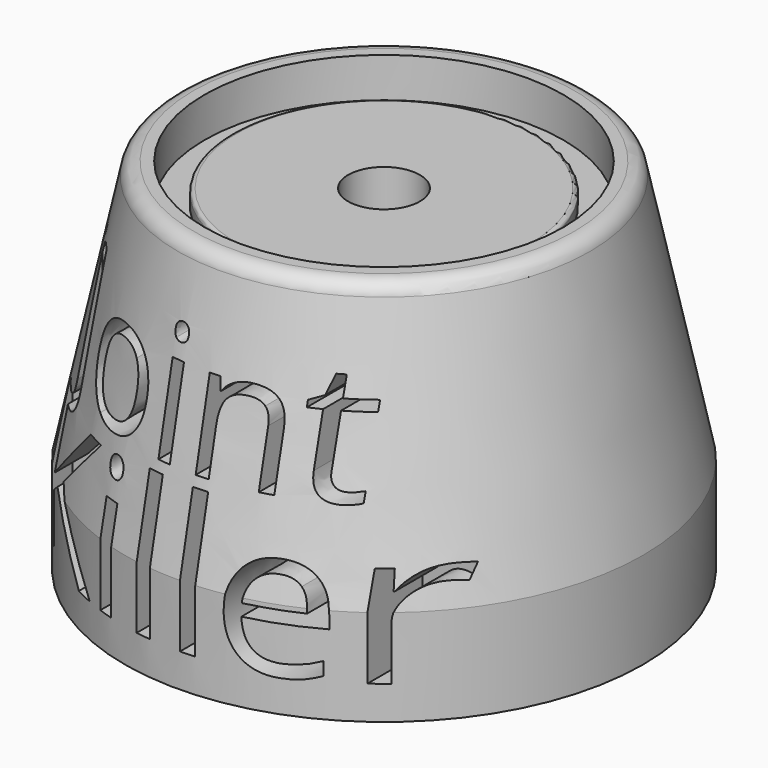
from build123d import *

# Parameters (mm, degrees)
F0_R      = 32.5
F0_R_2    = 22.5
F1_DEPTH  = 4
F2_DEPTH  = 45
F0_R_3    = 19
F3_DEPTH  = 40
F0_R_4    = 4.5
F4_DEPTH  = 42
F5_DEPTH  = 7
F6_SIZE2  = 32.9324107663
F6_SIZE   = 7
F7_R      = 2
F8_R      = 0.5
F10_START = 17.7
F9_W      = 1.5762670215
F9_H      = 10.4021474928
F9_W_2    = 1.8514880985
F9_H_2    = 12.2183944844
F9_H_3    = 17.3483364606
F10_DEPTH = 14.801


with BuildPart() as f1:
    # F0 (on Top) → F1 (new body)
    with BuildSketch(Plane.XY):
        Circle(F0_R)
        Circle(F0_R_2, mode=Mode.SUBTRACT)
    extrude(amount=F1_DEPTH)

    # F0 (on Top) → F2 (join)
    with BuildSketch(Plane.XY):
        Circle(F0_R)
        Circle(F0_R_2, mode=Mode.SUBTRACT)
    extrude(amount=F2_DEPTH)

    # F0 (on Top) → F3 (join)
    with BuildSketch(Plane.XY):
        Circle(F0_R_2)
        Circle(F0_R_3, mode=Mode.SUBTRACT)
    extrude(amount=F3_DEPTH)

    # F0 (on Top) → F4 (join)
    with BuildSketch(Plane.XY):
        Circle(F0_R_3)
        Circle(F0_R_4, mode=Mode.SUBTRACT)
    extrude(amount=F4_DEPTH)

    # F0 (on Top) → F5 (join)
    with BuildSketch(Plane.XY):
        Circle(F0_R_4)
    extrude(amount=F5_DEPTH)

    # F6
    f6_edges = [f1.edges().sort_by_distance(p)[0] for p in [
        (-32.5, 0, 45),
    ]]
    f6_side = f1.faces().sort_by_distance((-31.580761, 0, 45))[0]
    chamfer(f6_edges, length=F6_SIZE, length2=F6_SIZE2, reference=f6_side)

    # F7
    f7_edges = [f1.edges().sort_by_distance(p)[0] for p in [
        (-25.5, 0, 45),
    ]]
    fillet(f7_edges, radius=F7_R)

    # F8
    f8_edges = [f1.edges().sort_by_distance(p)[0] for p in [
        (-19, 0, 42),
    ]]
    fillet(f8_edges, radius=F8_R)

    # F9 (on Front) → F10 (cut)
    with BuildSketch(Plane.XZ.offset(F10_START)):
        with BuildLine():
            add(Edge.make_bspline(
                [(-22.9669187687, 19.1680129867), (-23.01992961, 19.16703125), (-23.073731253, 19.16703125)],
                knots=[0.9685352191, 0.9685352191, 0.9685352191, 1, 1, 1], degree=2))
            add(Edge.make_bspline(
                [(-23.073731253, 19.16703125), (-23.9636083962, 19.16703125), (-24.4768822433, 19.4221496119)],
                knots=[0, 0, 0, 1, 1, 1], degree=2))
            Line((-24.4768822433, 19.4221496119), (-24.4768822433, 20.5202504976))
            Line((-24.4768822433, 20.5202504976), (-24.8612158405, 20.5202504976))
            Line((-24.8612158405, 20.5202504976), (-24.8612158405, 4.2207338847))
            Line((-24.8612158405, 4.2207338847), (-22.9669187687, 4.2207338847))
            Line((-22.9669187687, 4.2207338847), (-22.9669187687, 10.6099731611))
            Line((-22.9669187687, 10.6099731611), (-21.2581272481, 12.1261243015))
            Line((-21.2581272481, 12.1261243015), (-15.3183821922, 4.2207338847))
            Line((-15.3183821922, 4.2207338847), (-13.0887481622, 4.2207338847))
            Line((-13.0887481622, 4.2207338847), (-19.8882401, 13.4389328183))
            Line((-19.8882401, 13.4389328183), (-13.3348997591, 20.5202504976))
            Line((-13.3348997591, 20.5202504976), (-15.5752360324, 20.5202504976))
            Line((-15.5752360324, 20.5202504976), (-22.9669187687, 12.4364893585))
            Line((-22.9669187687, 12.4364893585), (-22.9669187687, 19.1680129867))
        make_face()
        with BuildLine():
            add(Edge.make_bspline(
                [(-23.073731253, 19.16703125), (-23.9636083962, 19.16703125), (-24.4768822433, 19.4221496119)],
                knots=[0, 0, 0, 1, 1, 1], degree=2))
            add(Edge.make_bspline(
                [(-22.9669187687, 19.1680129867), (-23.01992961, 19.16703125), (-23.073731253, 19.16703125)],
                knots=[0.9685352191, 0.9685352191, 0.9685352191, 1, 1, 1], degree=2))
            Line((-22.9669187687, 19.1680129867), (-22.9669187687, 20.5202504976))
            Line((-22.9669187687, 20.5202504976), (-24.4768822433, 20.5202504976))
            Line((-24.4768822433, 20.5202504976), (-24.4768822433, 19.4221496119))
        make_face()
        with BuildLine():
            Line((-22.9669187687, 20.5202504976), (-22.9669187687, 19.1680129867))
            add(Edge.make_bspline(
                [(-20.4526937972, 20.1586520256), (-21.3351620775, 19.1982323805), (-22.9669187687, 19.1680129867)],
                knots=[0, 0, 0, 0.9685352191, 0.9685352191, 0.9685352191], degree=2))
            add(Edge.make_bspline(
                [(-19.5415567905, 22.9543240744), (-19.5415567905, 21.1502728012), (-20.4526937972, 20.1586520256)],
                knots=[0, 0, 0, 1, 1, 1], degree=2))
            Line((-19.5415567905, 22.9543240744), (-19.5415567905, 36.6973072584))
            Line((-19.5415567905, 36.6973072584), (-21.1542692923, 36.6973072584))
            Line((-21.1542692923, 36.6973072584), (-21.1542692923, 22.8206906468))
            add(Edge.make_bspline(
                [(-21.6432461526, 21.1791254731), (-21.1542692923, 21.7485861022), (-21.1542692923, 22.8206906468)],
                knots=[0, 0, 0, 1, 1, 1], degree=2))
            add(Edge.make_bspline(
                [(-23.073731253, 20.6096648439), (-22.1322230128, 20.6096648439), (-21.6432461526, 21.1791254731)],
                knots=[0, 0, 0, 1, 1, 1], degree=2))
            add(Edge.make_bspline(
                [(-24.4768822433, 20.797966492), (-23.8026408584, 20.6096648439), (-23.073731253, 20.6096648439)],
                knots=[0, 0, 0, 1, 1, 1], degree=2))
            Line((-24.4768822433, 20.797966492), (-24.4768822433, 20.5202504976))
            Line((-24.4768822433, 20.5202504976), (-22.9669187687, 20.5202504976))
        make_face()
        with BuildLine():
            add(Edge.make_bspline(
                [(-7.1197222662, 28.0323943249), (-7.1197222662, 25.487284953), (-8.3998697606, 24.0583184142)],
                knots=[0, 0, 0, 1, 1, 1], degree=2))
            add(Edge.make_bspline(
                [(-8.4059440073, 31.9609133854), (-7.1197222662, 30.5076498597), (-7.1197222662, 28.0323943249)],
                knots=[0, 0, 0, 1, 1, 1], degree=2))
            add(Edge.make_bspline(
                [(-11.8728203177, 33.414176911), (-9.6921657484, 33.414176911), (-8.4059440073, 31.9609133854)],
                knots=[0, 0, 0, 1, 1, 1], degree=2))
            add(Edge.make_bspline(
                [(-15.4049947802, 31.9943217423), (-14.1324400942, 33.414176911), (-11.8728203177, 33.414176911)],
                knots=[0, 0, 0, 1, 1, 1], degree=2))
            add(Edge.make_bspline(
                [(-16.6775494662, 28.0323943249), (-16.6775494662, 30.5744665735), (-15.4049947802, 31.9943217423)],
                knots=[0, 0, 0, 1, 1, 1], degree=2))
            add(Edge.make_bspline(
                [(-16.0883475352, 25.1653498773), (-16.6775494662, 26.3893105896), (-16.6775494662, 28.0323943249)],
                knots=[0, 0, 0, 1, 1, 1], degree=2))
            add(Edge.make_bspline(
                [(-14.4179296896, 23.2853705202), (-15.4991456042, 23.941389165), (-16.0883475352, 25.1653498773)],
                knots=[0, 0, 0, 1, 1, 1], degree=2))
            add(Edge.make_bspline(
                [(-11.9396370315, 22.6293518754), (-13.3367137751, 22.6293518754), (-14.4179296896, 23.2853705202)],
                knots=[0, 0, 0, 1, 1, 1], degree=2))
            add(Edge.make_bspline(
                [(-8.3998697606, 24.0583184142), (-9.6800172549, 22.6293518754), (-11.9396370315, 22.6293518754)],
                knots=[0, 0, 0, 1, 1, 1], degree=2))
        make_face()
        with BuildLine():
            add(Edge.make_bspline(
                [(-15.0435771009, 28.0323943249), (-15.0435771009, 26.0370042803), (-14.2463322201, 24.9937524077)],
                knots=[0, 0, 0, 1, 1, 1], degree=2))
            add(Edge.make_bspline(
                [(-14.2554435901, 31.0588877488), (-15.0435771009, 30.0429699863), (-15.0435771009, 28.0323943249)],
                knots=[0, 0, 0, 1, 1, 1], degree=2))
            add(Edge.make_bspline(
                [(-11.9214142914, 32.0748055112), (-13.4673100794, 32.0748055112), (-14.2554435901, 31.0588877488)],
                knots=[0, 0, 0, 1, 1, 1], degree=2))
            add(Edge.make_bspline(
                [(-9.552458074, 31.0452206937), (-10.3542586399, 32.0748055112), (-11.9214142914, 32.0748055112)],
                knots=[0, 0, 0, 1, 1, 1], degree=2))
            add(Edge.make_bspline(
                [(-8.7506575081, 28.0323943249), (-8.7506575081, 30.0156358761), (-9.552458074, 31.0452206937)],
                knots=[0, 0, 0, 1, 1, 1], degree=2))
            add(Edge.make_bspline(
                [(-9.552458074, 24.9891967226), (-8.7506575081, 26.0278929103), (-8.7506575081, 28.0323943249)],
                knots=[0, 0, 0, 1, 1, 1], degree=2))
            add(Edge.make_bspline(
                [(-11.9031915512, 23.950500535), (-10.3542586399, 23.950500535), (-9.552458074, 24.9891967226)],
                knots=[0, 0, 0, 1, 1, 1], degree=2))
            add(Edge.make_bspline(
                [(-14.2463322201, 24.9937524077), (-13.4490873392, 23.950500535), (-11.9031915512, 23.950500535)],
                knots=[0, 0, 0, 1, 1, 1], degree=2))
        make_face(mode=Mode.SUBTRACT)
        with Locations((-3.5678065019, 28.0217643932)):
            Rectangle(F9_W, F9_H)
        with BuildLine():
            add(Edge.make_bspline(
                [(-4.4895734403, 36.0412886136), (-4.4895734403, 36.5818965709), (-4.2238251467, 36.8339778094)],
                knots=[0, 0, 0, 1, 1, 1], degree=2))
            add(Edge.make_bspline(
                [(-4.2238251467, 35.2485994178), (-4.4895734403, 35.5097920264), (-4.4895734403, 36.0412886136)],
                knots=[0, 0, 0, 1, 1, 1], degree=2))
            add(Edge.make_bspline(
                [(-3.5571765701, 34.9874068092), (-3.958076853, 34.9874068092), (-4.2238251467, 35.2485994178)],
                knots=[0, 0, 0, 1, 1, 1], degree=2))
            add(Edge.make_bspline(
                [(-2.902676487, 35.2485994178), (-3.1775361507, 34.9874068092), (-3.5571765701, 34.9874068092)],
                knots=[0, 0, 0, 1, 1, 1], degree=2))
            add(Edge.make_bspline(
                [(-2.6278168233, 36.0412886136), (-2.6278168233, 35.5097920264), (-2.902676487, 35.2485994178)],
                knots=[0, 0, 0, 1, 1, 1], degree=2))
            add(Edge.make_bspline(
                [(-2.902676487, 36.8294221244), (-2.6278168233, 36.5727852008), (-2.6278168233, 36.0412886136)],
                knots=[0, 0, 0, 1, 1, 1], degree=2))
            add(Edge.make_bspline(
                [(-3.5571765701, 37.0860590479), (-3.1775361507, 37.0860590479), (-2.902676487, 36.8294221244)],
                knots=[0, 0, 0, 1, 1, 1], degree=2))
            add(Edge.make_bspline(
                [(-4.2238251467, 36.8339778094), (-3.958076853, 37.0860590479), (-3.5571765701, 37.0860590479)],
                knots=[0, 0, 0, 1, 1, 1], degree=2))
        make_face()
        with BuildLine():
            Line((7.6801798455, 29.5509560027), (7.6801798455, 22.8206906468))
            Line((7.6801798455, 22.8206906468), (9.2564468671, 22.8206906468))
            Line((9.2564468671, 22.8206906468), (9.2564468671, 29.6056242231))
            add(Edge.make_bspline(
                [(8.3073458184, 32.5075955894), (9.2564468671, 31.6010142677), (9.2564468671, 29.6056242231)],
                knots=[0, 0, 0, 1, 1, 1], degree=2))
            add(Edge.make_bspline(
                [(5.4782654127, 33.414176911), (7.3582447698, 33.414176911), (8.3073458184, 32.5075955894)],
                knots=[0, 0, 0, 1, 1, 1], degree=2))
            add(Edge.make_bspline(
                [(3.5329879035, 32.9904982029), (4.4061608682, 33.414176911), (5.4782654127, 33.414176911)],
                knots=[0, 0, 0, 1, 1, 1], degree=2))
            add(Edge.make_bspline(
                [(2.1738752019, 31.7984272858), (2.6598149388, 32.5668194948), (3.5329879035, 32.9904982029)],
                knots=[0, 0, 0, 1, 1, 1], degree=2))
            Line((2.1738752019, 31.7984272858), (2.097947118, 31.7984272858))
            Line((2.097947118, 31.7984272858), (1.8428287561, 33.2228381396))
            Line((1.8428287561, 33.2228381396), (0.5611627, 33.2228381396))
            Line((0.5611627, 33.2228381396), (0.5611627, 22.8206906468))
            Line((0.5611627, 22.8206906468), (2.1374297216, 22.8206906468))
            Line((2.1374297216, 22.8206906468), (2.1374297216, 28.2784013167))
            add(Edge.make_bspline(
                [(2.8967105605, 31.1925211764), (2.1374297216, 30.3102368416), (2.1374297216, 28.2784013167)],
                knots=[0, 0, 0, 1, 1, 1], degree=2))
            add(Edge.make_bspline(
                [(5.2869266413, 32.0748055112), (3.6559913994, 32.0748055112), (2.8967105605, 31.1925211764)],
                knots=[0, 0, 0, 1, 1, 1], degree=2))
            add(Edge.make_bspline(
                [(7.1016078463, 31.4476395383), (6.523035847, 32.0748055112), (5.2869266413, 32.0748055112)],
                knots=[0, 0, 0, 1, 1, 1], degree=2))
            add(Edge.make_bspline(
                [(7.6801798455, 29.5509560027), (7.6801798455, 30.8204735654), (7.1016078463, 31.4476395383)],
                knots=[0, 0, 0, 1, 1, 1], degree=2))
        make_face()
        with BuildLine():
            add(Edge.make_bspline(
                [(15.850041672, 23.9322777949), (16.2691646951, 23.9322777949), (16.6579164846, 23.993020262)],
                knots=[0, 0, 0, 1, 1, 1], degree=2))
            add(Edge.make_bspline(
                [(14.6260809597, 24.4349217103), (15.072538093, 23.9322777949), (15.850041672, 23.9322777949)],
                knots=[0, 0, 0, 1, 1, 1], degree=2))
            add(Edge.make_bspline(
                [(14.1796238264, 25.8760367425), (14.1796238264, 24.9375656256), (14.6260809597, 24.4349217103)],
                knots=[0, 0, 0, 1, 1, 1], degree=2))
            Line((14.1796238264, 25.8760367425), (14.1796238264, 31.9988774273))
            Line((14.1796238264, 31.9988774273), (17.1985244419, 31.9988774273))
            Line((17.1985244419, 31.9988774273), (17.1985244419, 33.2228381396))
            Line((17.1985244419, 33.2228381396), (14.1796238264, 33.2228381396))
            Line((14.1796238264, 33.2228381396), (14.1796238264, 35.6343140839))
            Line((14.1796238264, 35.6343140839), (13.2684868198, 35.6343140839))
            Line((13.2684868198, 35.6343140839), (12.6063939283, 33.414176911))
            Line((12.6063939283, 33.414176911), (11.1151663607, 32.7581582662))
            Line((11.1151663607, 32.7581582662), (11.1151663607, 31.9988774273))
            Line((11.1151663607, 31.9988774273), (12.6063939283, 31.9988774273))
            Line((12.6063939283, 31.9988774273), (12.6063939283, 25.8092200287))
            add(Edge.make_bspline(
                [(15.6222574203, 22.6293518754), (12.6063939283, 22.6293518754), (12.6063939283, 25.8092200287)],
                knots=[0, 0, 0, 1, 1, 1], degree=2))
            add(Edge.make_bspline(
                [(16.5212459336, 22.711354206), (16.0231577033, 22.6293518754), (15.6222574203, 22.6293518754)],
                knots=[0, 0, 0, 1, 1, 1], degree=2))
            add(Edge.make_bspline(
                [(17.2744525258, 22.9148414708), (17.0193341639, 22.7933565366), (16.5212459336, 22.711354206)],
                knots=[0, 0, 0, 1, 1, 1], degree=2))
            Line((17.2744525258, 22.9148414708), (17.2744525258, 24.120579443))
            add(Edge.make_bspline(
                [(16.6579164846, 23.993020262), (17.0466682741, 24.0537627291), (17.2744525258, 24.120579443)],
                knots=[0, 0, 0, 1, 1, 1], degree=2))
        make_face()
        with Locations((-10.2009261665, 10.3299311269)):
            Rectangle(F9_W_2, F9_H_2)
        with BuildLine():
            add(Edge.make_bspline(
                [(-11.2836364515, 19.7496889768), (-11.2836364515, 20.3846887486), (-10.9714876873, 20.6807841478)],
                knots=[0, 0, 0, 1, 1, 1], degree=2))
            add(Edge.make_bspline(
                [(-10.9714876873, 18.8185938059), (-11.2836364515, 19.1253914484), (-11.2836364515, 19.7496889768)],
                knots=[0, 0, 0, 1, 1, 1], degree=2))
            add(Edge.make_bspline(
                [(-10.1884402159, 18.5117961634), (-10.6593389231, 18.5117961634), (-10.9714876873, 18.8185938059)],
                knots=[0, 0, 0, 1, 1, 1], degree=2))
            add(Edge.make_bspline(
                [(-9.4196624024, 18.8185938059), (-9.7425134099, 18.5117961634), (-10.1884402159, 18.5117961634)],
                knots=[0, 0, 0, 1, 1, 1], degree=2))
            add(Edge.make_bspline(
                [(-9.0968113949, 19.7496889768), (-9.0968113949, 19.1253914484), (-9.4196624024, 18.8185938059)],
                knots=[0, 0, 0, 1, 1, 1], degree=2))
            add(Edge.make_bspline(
                [(-9.4196624024, 20.6754330261), (-9.0968113949, 20.3739865052), (-9.0968113949, 19.7496889768)],
                knots=[0, 0, 0, 1, 1, 1], degree=2))
            add(Edge.make_bspline(
                [(-10.1884402159, 20.976879547), (-9.7425134099, 20.976879547), (-9.4196624024, 20.6754330261)],
                knots=[0, 0, 0, 1, 1, 1], degree=2))
            add(Edge.make_bspline(
                [(-10.9714876873, 20.6807841478), (-10.6593389231, 20.976879547), (-10.1884402159, 20.976879547)],
                knots=[0, 0, 0, 1, 1, 1], degree=2))
        make_face()
        with Locations((-4.4252821752, 12.894902115)):
            Rectangle(F9_W_2, F9_H_3)
        with Locations((1.3503618161, 12.894902115)):
            Rectangle(F9_W_2, F9_H_3)
        with BuildLine():
            add(Edge.make_bspline(
                [(11.3623104644, 3.9959867745), (8.6546428984, 3.9959867745), (7.0867642485, 5.6476996639)],
                knots=[0, 0, 0, 1, 1, 1], degree=2))
            add(Edge.make_bspline(
                [(13.4742198176, 4.1814923258), (12.6002032778, 3.9959867745), (11.3623104644, 3.9959867745)],
                knots=[0, 0, 0, 1, 1, 1], degree=2))
            add(Edge.make_bspline(
                [(15.3292753306, 4.787952782), (14.3482363574, 4.3669978771), (13.4742198176, 4.1814923258)],
                knots=[0, 0, 0, 1, 1, 1], degree=2))
            Line((15.3292753306, 4.787952782), (15.3292753306, 6.4396656714))
            add(Edge.make_bspline(
                [(11.4300913389, 5.6155929339), (13.4028715286, 5.6155929339), (15.3292753306, 6.4396656714)],
                knots=[0, 0, 0, 1, 1, 1], degree=2))
            add(Edge.make_bspline(
                [(8.5262159782, 6.7304099489), (9.5571987537, 5.6155929339), (11.4300913389, 5.6155929339)],
                knots=[0, 0, 0, 1, 1, 1], degree=2))
            add(Edge.make_bspline(
                [(7.4381545716, 9.996377876), (7.4952332028, 7.8452269639), (8.5262159782, 6.7304099489)],
                knots=[0, 0, 0, 1, 1, 1], degree=2))
            Line((7.4381545716, 9.996377876), (15.8536852544, 9.996377876))
            Line((15.8536852544, 9.996377876), (15.8536852544, 11.166489815))
            add(Edge.make_bspline(
                [(14.5159048364, 15.1530754606), (15.8536852544, 13.6422754419), (15.8536852544, 11.166489815)],
                knots=[0, 0, 0, 1, 1, 1], degree=2))
            add(Edge.make_bspline(
                [(10.8842769284, 16.6638754793), (13.1781244184, 16.6638754793), (14.5159048364, 15.1530754606)],
                knots=[0, 0, 0, 1, 1, 1], degree=2))
            add(Edge.make_bspline(
                [(6.9743906934, 14.9247609359), (8.4298957881, 16.6638754793), (10.8842769284, 16.6638754793)],
                knots=[0, 0, 0, 1, 1, 1], degree=2))
            add(Edge.make_bspline(
                [(5.5188855986, 10.2282598151), (5.5188855986, 13.1856463925), (6.9743906934, 14.9247609359)],
                knots=[0, 0, 0, 1, 1, 1], degree=2))
            add(Edge.make_bspline(
                [(7.0867642485, 5.6476996639), (5.5188855986, 7.2994125533), (5.5188855986, 10.2282598151)],
                knots=[0, 0, 0, 1, 1, 1], degree=2))
        make_face()
        with BuildLine():
            add(Edge.make_bspline(
                [(10.8593050272, 15.1120501945), (9.3895302747, 15.1120501945), (8.5137300277, 14.1541994152)],
                knots=[0, 0, 0, 1, 1, 1], degree=2))
            add(Edge.make_bspline(
                [(13.0907227644, 14.1809550235), (12.3112427076, 15.1120501945), (10.8593050272, 15.1120501945)],
                knots=[0, 0, 0, 1, 1, 1], degree=2))
            add(Edge.make_bspline(
                [(13.8702028213, 11.5018267731), (13.8702028213, 13.2498598526), (13.0907227644, 14.1809550235)],
                knots=[0, 0, 0, 1, 1, 1], degree=2))
            Line((13.8702028213, 11.5018267731), (7.480963545, 11.5018267731))
            add(Edge.make_bspline(
                [(8.5137300277, 14.1541994152), (7.6379297807, 13.1963486359), (7.480963545, 11.5018267731)],
                knots=[0, 0, 0, 1, 1, 1], degree=2))
        make_face(mode=Mode.SUBTRACT)
        with BuildLine():
            add(Edge.make_bspline(
                [(24.5867158231, 16.6638754793), (25.4000863173, 16.6638754793), (26.0457883323, 16.5283137303)],
                knots=[0, 0, 0, 1, 1, 1], degree=2))
            add(Edge.make_bspline(
                [(22.4783738843, 16.016389757), (23.4380083709, 16.6638754793), (24.5867158231, 16.6638754793)],
                knots=[0, 0, 0, 1, 1, 1], degree=2))
            add(Edge.make_bspline(
                [(20.8409306527, 14.1773876091), (21.5187393978, 15.3689040347), (22.4783738843, 16.016389757)],
                knots=[0, 0, 0, 1, 1, 1], degree=2))
            Line((20.8409306527, 14.1773876091), (20.7517452915, 14.1773876091))
            Line((20.7517452915, 14.1773876091), (20.5377004246, 16.4391283691))
            Line((20.5377004246, 16.4391283691), (19.0108470409, 16.4391283691))
            Line((19.0108470409, 16.4391283691), (19.0108470409, 4.2207338847))
            Line((19.0108470409, 4.2207338847), (20.8623351394, 4.2207338847))
            Line((20.8623351394, 4.2207338847), (20.8623351394, 10.7776416401))
            add(Edge.make_bspline(
                [(21.9147224016, 13.7760534837), (20.8623351394, 12.5720511075), (20.8623351394, 10.7776416401)],
                knots=[0, 0, 0, 1, 1, 1], degree=2))
            add(Edge.make_bspline(
                [(24.4511540741, 14.9800558599), (22.9671096637, 14.9800558599), (21.9147224016, 13.7760534837)],
                knots=[0, 0, 0, 1, 1, 1], degree=2))
            add(Edge.make_bspline(
                [(25.7889344921, 14.8123873808), (25.0326426291, 14.9800558599), (24.4511540741, 14.9800558599)],
                knots=[0, 0, 0, 1, 1, 1], degree=2))
            Line((25.7889344921, 14.8123873808), (26.0457883323, 16.5283137303))
        make_face()
    extrude(amount=F10_DEPTH, mode=Mode.SUBTRACT)


solid = f1.part
